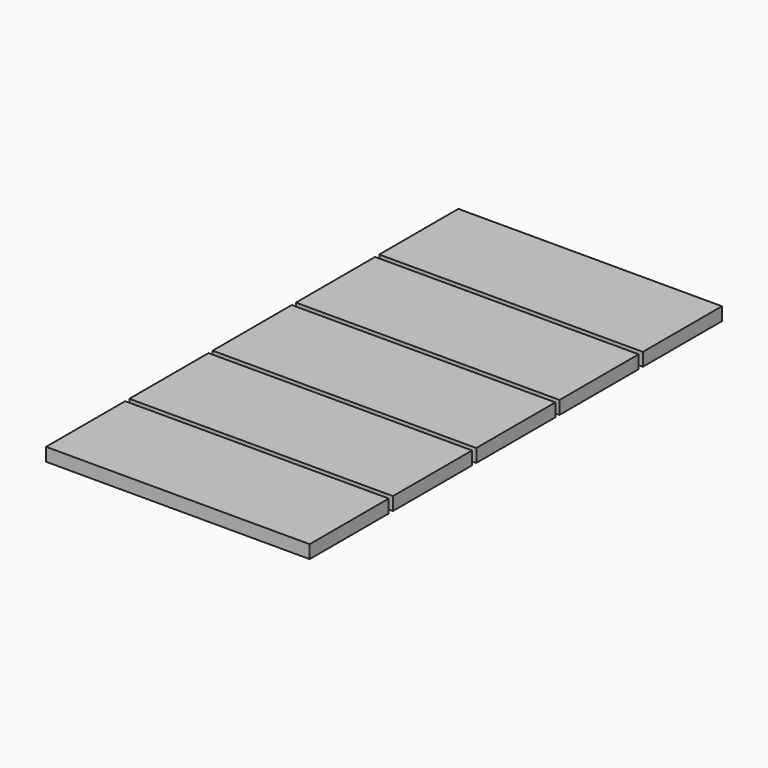
from build123d import *

# Parameters (mm, degrees)
F0_W     = 400
F0_H     = 150
F1_DEPTH = 20


with BuildPart() as f1:
    # F0 (on Top) → F1 (new body)
    with BuildSketch(Plane.XY):
        with Locations((-200, 75)):
            Rectangle(F0_W, F0_H)
        with Locations((-200, 233)):
            Rectangle(F0_W, F0_H)
        with Locations((-200, 391)):
            Rectangle(F0_W, F0_H)
        with Locations((-200, 549)):
            Rectangle(F0_W, F0_H)
        with Locations((-200, 707)):
            Rectangle(F0_W, F0_H)
    extrude(amount=F1_DEPTH)


solid = f1.part
